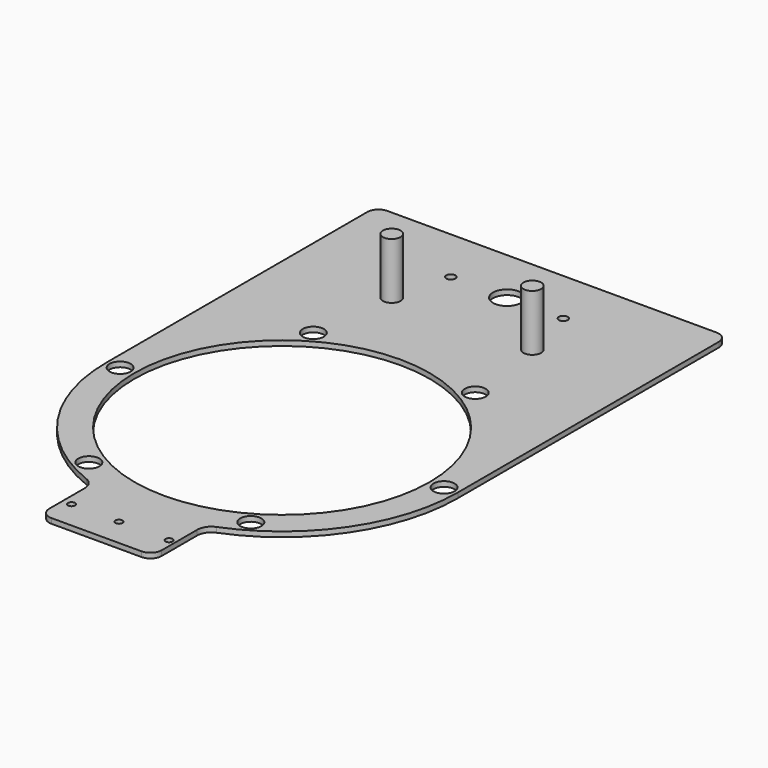
from build123d import *

# Parameters (mm, degrees)
F0_R     = 4.7625
F0_R_2   = 66.675
F0_R_3   = 2.032
F0_R_4   = 6.35
F0_R_5   = 2.0193
F0_R_6   = 1.5875
F1_DEPTH = 2.286
F2_R     = 5.08
F3_R     = 5.08
F4_R     = 4.0005
F5_DEPTH = 25.4


with BuildPart() as f1:
    # F0 (on Top) → F1 (new body)
    with BuildSketch(Plane.XY):
        with BuildLine():
            ThreePointArc((79.375, 0), (0, 79.375), (-79.375, 0))
            ThreePointArc((-79.375, 0), (-65.703381, -44.536011), (-29.398148, -73.73018))
            ThreePointArc((-29.398148, -73.73018), (0, -79.375), (29.398148, -73.73018))
            ThreePointArc((29.398148, -73.73018), (65.703381, -44.536011), (79.375, 0))
        make_face()
        with Locations((-36.572162, -63.344843)):
            Circle(F0_R, mode=Mode.SUBTRACT)
        with Locations((-73.144324, 0)):
            Circle(F0_R, mode=Mode.SUBTRACT)
        with Locations((36.572162, -63.344843)):
            Circle(F0_R, mode=Mode.SUBTRACT)
        Circle(F0_R_2, mode=Mode.SUBTRACT)
        with Locations((73.144324, 0)):
            Circle(F0_R, mode=Mode.SUBTRACT)
        with Locations((-36.572162, 63.344843)):
            Circle(F0_R, mode=Mode.SUBTRACT)
        with Locations((36.572162, 63.344843)):
            Circle(F0_R, mode=Mode.SUBTRACT)
        with BuildLine():
            Line((-79.375, 152.4), (-79.375, 0))
            ThreePointArc((-79.375, 0), (0, 79.375), (79.375, 0))
            Line((79.375, 0), (79.375, 152.4))
            Line((79.375, 152.4), (-79.375, 152.4))
        make_face()
        with Locations((-25.4, 127)):
            Circle(F0_R_3, mode=Mode.SUBTRACT)
        with Locations((0, 127)):
            Circle(F0_R_4, mode=Mode.SUBTRACT)
        with Locations((25.4, 127)):
            Circle(F0_R_5, mode=Mode.SUBTRACT)
        with BuildLine():
            ThreePointArc((29.398148, -73.73018), (0, -79.375), (-29.398148, -73.73018))
            ThreePointArc((-29.398148, -73.73018), (-26.493729, -76.065714), (-25.4, -79.628595))
            Line((-25.4, -79.628595), (-25.4, -104.775))
            Line((-25.4, -104.775), (0, -104.775))
            Line((0, -104.775), (25.4, -104.775))
            Line((25.4, -104.775), (25.4, -79.628595))
            ThreePointArc((25.4, -79.628595), (26.493729, -76.065714), (29.398148, -73.73018))
        make_face()
        with Locations((-21.401391, -92.075)):
            Circle(F0_R_6, mode=Mode.SUBTRACT)
        with Locations((0, -92.075)):
            Circle(F0_R_6, mode=Mode.SUBTRACT)
        with Locations((22.656089, -92.075)):
            Circle(F0_R_6, mode=Mode.SUBTRACT)
    extrude(amount=F1_DEPTH)

    # F2
    f2_edges = [f1.edges().sort_by_distance(p)[0] for p in [
        (-79.375, 152.4, 1.143),
        (79.375, 152.4, 1.143),
    ]]
    fillet(f2_edges, radius=F2_R)

    # F3
    f3_edges = [f1.edges().sort_by_distance(p)[0] for p in [
        (25.4, -104.775, 1.143),
        (-25.4, -104.775, 1.143),
    ]]
    fillet(f3_edges, radius=F3_R)

    # F4 (on face) → F5 (join)
    with BuildSketch(Plane.XY.offset(2.286)):
        with Locations((-31.75, 101.6)):
            Circle(F4_R)
        with Locations((31.75, 101.6)):
            Circle(F4_R)
    extrude(amount=F5_DEPTH)


solid = f1.part
